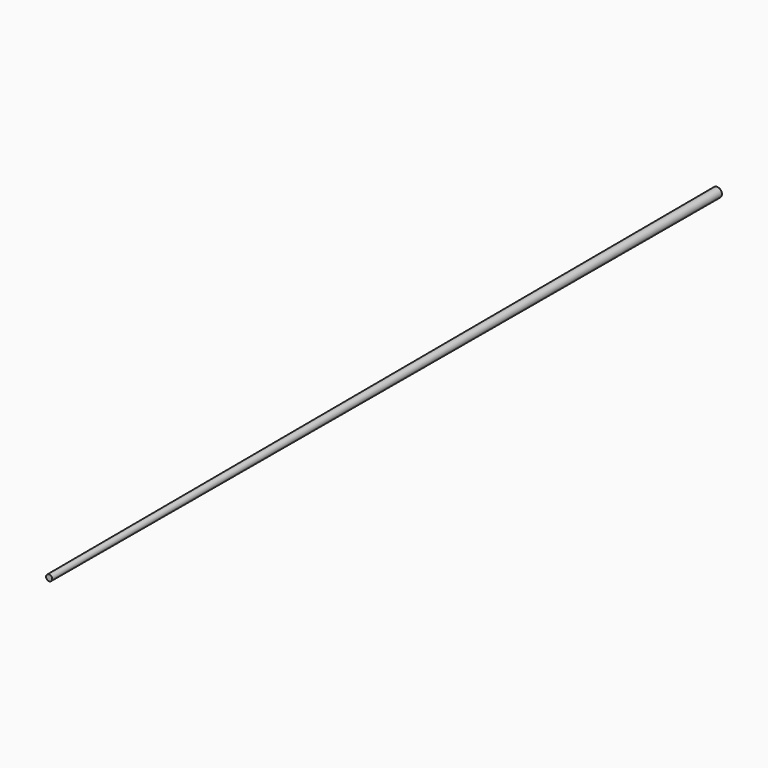
from build123d import *


with BuildPart() as f1:
    # F0 (on Right) → F1 (revolve)
    with BuildSketch(Plane.YZ):
        Polygon((0, -6.996401), (0, 0), (-1218.020201, 0), (-1218.020201, -4.424665), align=None)
    revolve(axis=Axis((0, -609.0101, 0), (0, -1, 0)))


solid = f1.part
